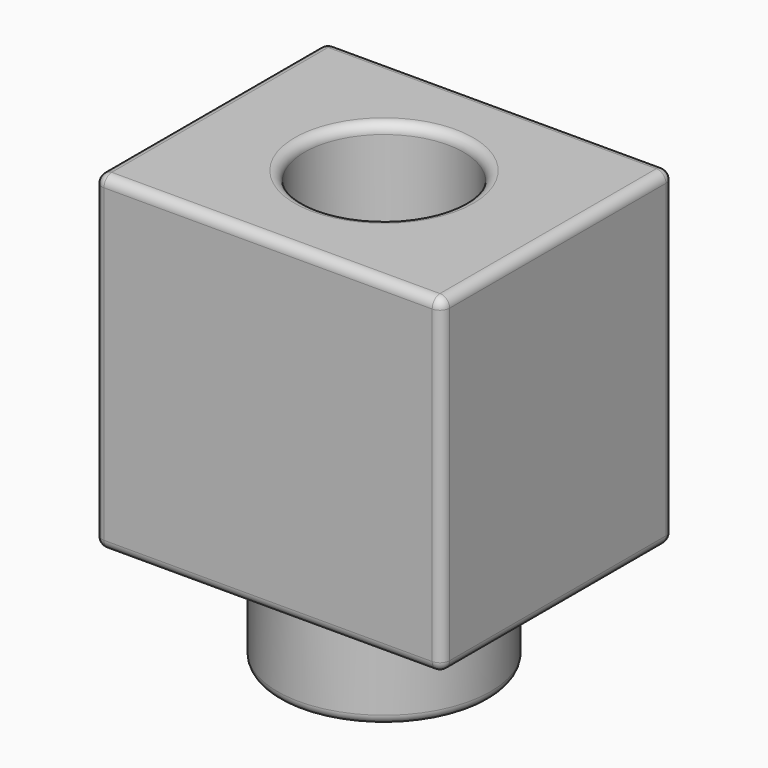
from build123d import *

# Parameters (mm, degrees)
F0_W     = 182.3617219925
F0_H     = 152.0290374756
F1_DEPTH = 172.974
F2_R     = 55.9466772096
F3_DEPTH = 54.61
F4_R     = 41.7280141722
F5_DEPTH = 271.272
F6_R     = 5.08


with BuildPart() as f1:
    # F0 (on Top) → F1 (new body)
    with BuildSketch(Plane.XY):
        Rectangle(F0_W, F0_H)
    extrude(amount=F1_DEPTH)

    # F2 (on Top) → F3 (join)
    with BuildSketch(Plane.XY):
        Circle(F2_R)
    extrude(amount=-F3_DEPTH)

    # F4 (on face) → F5 (cut)
    with BuildSketch(Plane(origin=(0, 0, -54.61), x_dir=(1, 0, 0), z_dir=(0, 0, -1))):
        Circle(F4_R)
    extrude(amount=-F5_DEPTH, mode=Mode.SUBTRACT)

    # F6
    f6_edges = [f1.edges().sort_by_distance(p)[0] for p in [
        (91.180861, 76.014519, 86.487),
        (-91.180861, 76.014519, 86.487),
        (0, 76.014519, 0),
        (0, 76.014519, 172.974),
        (91.180861, 0, 0),
        (-91.180861, 0, 0),
        (0, -76.014519, 0),
        (-55.946677, 0, 0),
        (-91.180861, -76.014519, 86.487),
        (-91.180861, 0, 172.974),
        (55.946677, 0, -27.305),
        (-55.946677, 0, -54.61),
        (-41.728014, 0, -54.61),
        (41.728014, 0, 59.182),
        (-41.728014, 0, 172.974),
        (91.180861, 0, 172.974),
        (91.180861, -76.014519, 86.487),
        (0, -76.014519, 172.974),
    ]]
    fillet(f6_edges, radius=F6_R)


solid = f1.part
